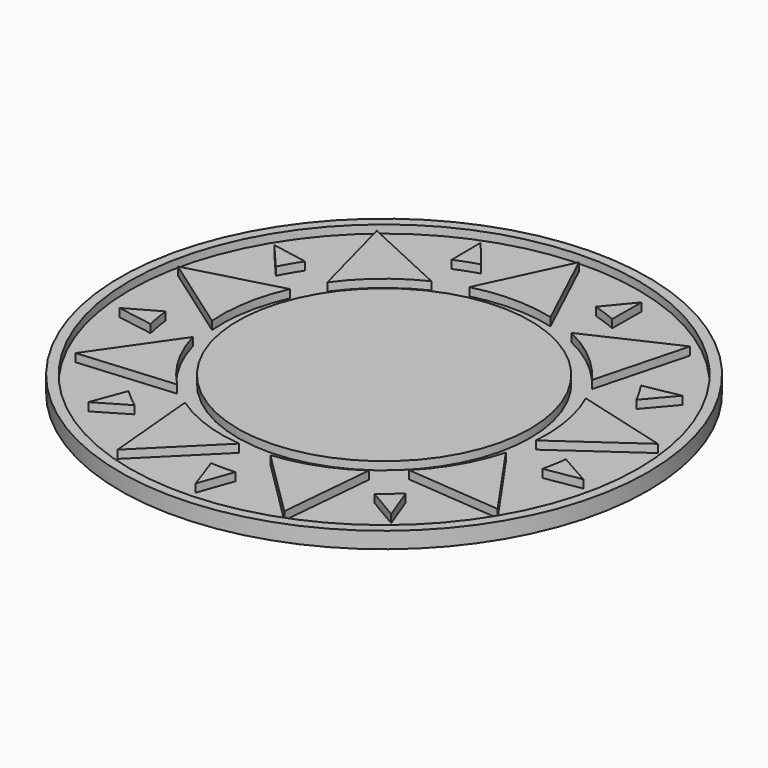
from build123d import *

# Parameters (mm, degrees)
F0_R     = 32.5
F1_DEPTH = 2
F2_R     = 31.3
F2_R_2   = 18
F3_DEPTH = 1
F5_DEPTH = 1
F6_COUNT = 9


with BuildPart() as f1:
    # F0 (on Top) → F1 (new body)
    with BuildSketch(Plane.XY):
        Circle(F0_R)
    extrude(amount=F1_DEPTH)

    # F2 (on face) → F3 (cut)
    with BuildSketch(Plane.XY.offset(2)):
        Circle(F2_R)
        Circle(F2_R_2, mode=Mode.SUBTRACT)
    extrude(amount=-F3_DEPTH, mode=Mode.SUBTRACT)

    # F4 (on face) → F5 (join, through all)
    with BuildSketch(Plane.XY.offset(1)):
        with BuildLine():
            ThreePointArc((-5, 19.364916731), (0, 20), (5, 19.364916731))
            add(Edge.make_bspline(
                [(0, 30), (5, 19.364916731), (0, 30), (5, 19.364916731)],
                knots=[0, 0, 0, 0, 11.7518082072, 11.7518082072, 11.7518082072, 11.7518082072], degree=3))
            add(Edge.make_bspline(
                [(-5, 19.364916731), (0, 30), (-5, 19.364916731), (0, 30)],
                knots=[0, 0, 0, 0, 11.7518082072, 11.7518082072, 11.7518082072, 11.7518082072], degree=3))
        make_face()
        with BuildLine():
            Line((9.8770545117, 22.7512776415), (9.9185841564, 27.2510860028))
            Line((9.9185841564, 27.2510860028), (7.0579766494, 23.7773380714))
            ThreePointArc((7.0579766494, 23.7773380714), (8.4830430925, 23.3069693448), (9.8770545117, 22.7512776415))
        make_face()
    extrude(amount=F5_DEPTH)

    # F6: F1 ×9 about axis
    f6_axis = Axis((0, 0, 0), (0, 0, -1))


with BuildPart() as f1_1:
    add(f1.part)
    for i in range(1, F6_COUNT):
        add(f1.part.rotate(f6_axis, i * 360 / F6_COUNT))


solid = f1_1.part
